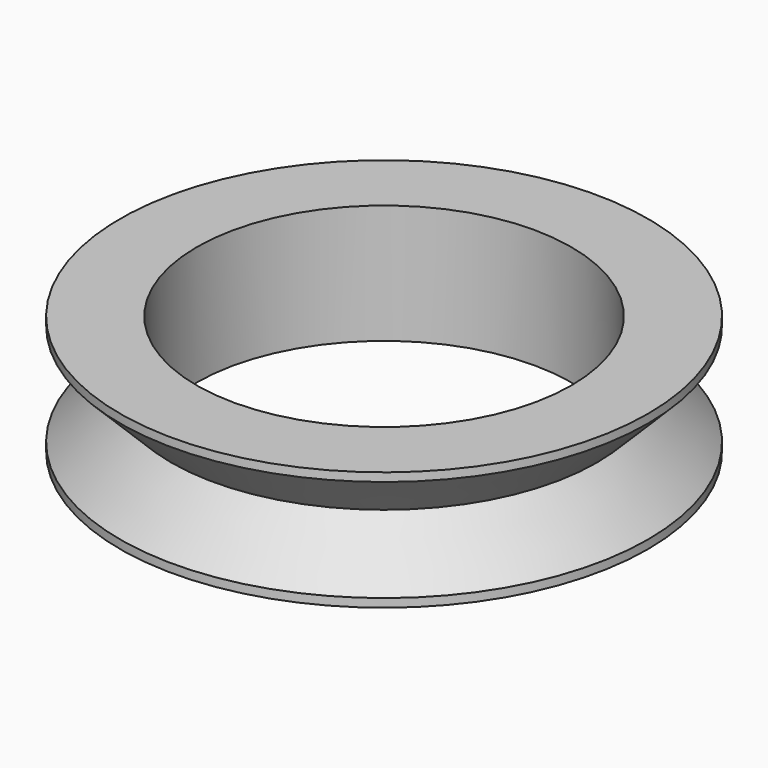
from build123d import *


with BuildPart() as part:
    # Sketch → Revolution (revolve)
    with BuildSketch(Plane.XZ):
        Polygon((11, 3.5), (15.5, 3.5), (15.5, 3), (12.5, 0), (15.5, -3), (15.5, -3.5), (11, -3.5), align=None)
    revolve(axis=Axis((0, 0, 0), (0, 0, 1)))


solid = part.part
